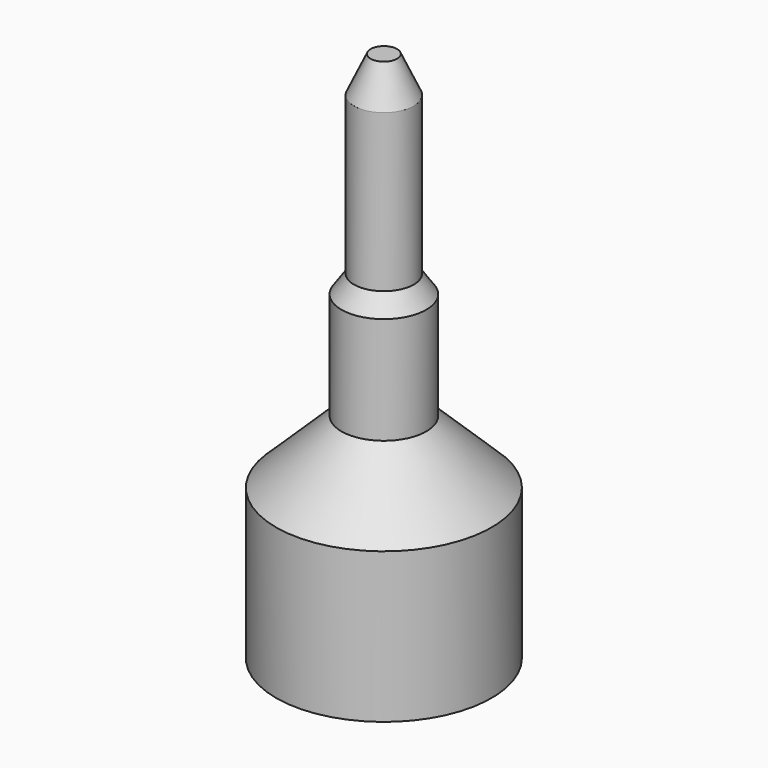
from build123d import *

# Parameters (mm, degrees)
F0_W = 12.5015752
F0_H = 17.4159876299


with BuildPart() as f1:
    # F0 (on Front) → F1 (revolve)
    with BuildSketch(Plane.XZ):
        with Locations((-6.2507876, -72.4229157223)):
            Rectangle(F0_W, F0_H)
        Polygon((-12.5015752, -63.7149219074), (0, -63.7149219074), (0, -19.4379147142), (-1.5324499691, -19.4379147142), (-3.4681754187, -23.6319862306), (-3.4681754187, -41.8600700796), (-4.9199699424, -43.9571067691), (-4.9199699424, -56.3780143857), align=None)
    revolve(axis=Axis((0, 0, -47.0220060088), (0, 0, -1)))


solid = f1.part
